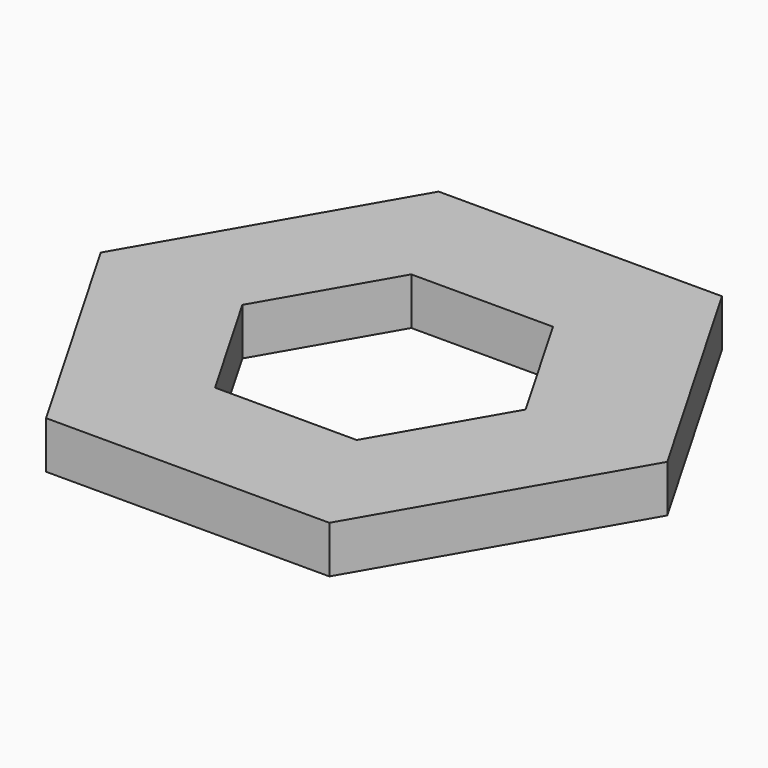
from build123d import *

# Parameters (mm, degrees)
EXTRUDE_DEPTH = 5


with BuildPart() as part:
    # Sketch → Extrude (new body)
    with BuildSketch(Plane.XY):
        Polygon((30, 0), (15, 25.980762), (-15, 25.980762), (-30, 0), (-15, -25.980762), (15, -25.980762), align=None)
        Polygon((15, 0), (7.5, 12.990381), (-7.5, 12.990381), (-15, 0), (-7.5, -12.990381), (7.5, -12.990381), align=None, mode=Mode.SUBTRACT)
    extrude(amount=EXTRUDE_DEPTH)


solid = part.part
